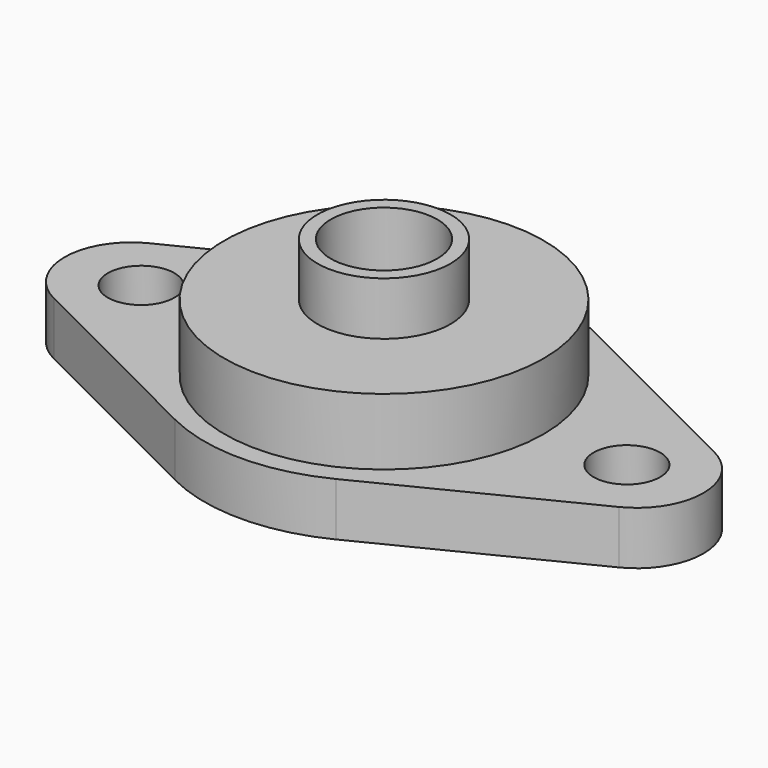
from build123d import *

# Parameters (mm, degrees)
PAD003_DEPTH      = 4
SKETCH002_R       = 12
PAD_DEPTH         = 9
SKETCH003_R       = 5
PAD004_DEPTH      = 13
SKETCH001_R       = 4
SKETCH001_R_2     = 2.5
POCKET_DEPTH      = 0.001
POCKET_DEPTH_BACK = -13.001


with BuildPart() as part:
    # Sketch004 → Pad003 (new body)
    with BuildSketch(Plane.XY):
        with BuildLine():
            ThreePointArc((-21.23684, 4.47175), (-24, 0), (-21.23684, -4.47175))
            Line((-21.23684, -4.47175), (-6.039475, -12.073721))
            ThreePointArc((-6.039475, -12.073721), (0, -13.5), (6.039474, -12.073722))
            Line((6.039474, -12.073722), (21.236823, -4.471758))
            ThreePointArc((21.236823, -4.471758), (24, 0), (21.236823, 4.471758))
            Line((6.039474, 12.073722), (21.236823, 4.471758))
            ThreePointArc((6.039474, 12.073722), (0, 13.5), (-6.039475, 12.073721))
            Line((-21.23684, 4.47175), (-6.039475, 12.073721))
        make_face()
    extrude(amount=PAD003_DEPTH)

    # Sketch002 → Pad (join)
    with BuildSketch(Plane.XY):
        Circle(SKETCH002_R)
    extrude(amount=PAD_DEPTH)

    # Sketch003 → Pad004 (join)
    with BuildSketch(Plane.XY):
        Circle(SKETCH003_R)
    extrude(amount=PAD004_DEPTH)

    # Sketch001 → Pocket (cut, two sides)
    with BuildSketch(Plane.XY) as pocket_sk:
        Circle(SKETCH001_R)
        with Locations((18.25, 0)):
            Circle(SKETCH001_R_2)
        with Locations((-18.25, 0)):
            Circle(SKETCH001_R_2)
    extrude(amount=-POCKET_DEPTH, mode=Mode.SUBTRACT)
    extrude(pocket_sk.sketch, amount=-POCKET_DEPTH_BACK, mode=Mode.SUBTRACT)


solid = part.part
